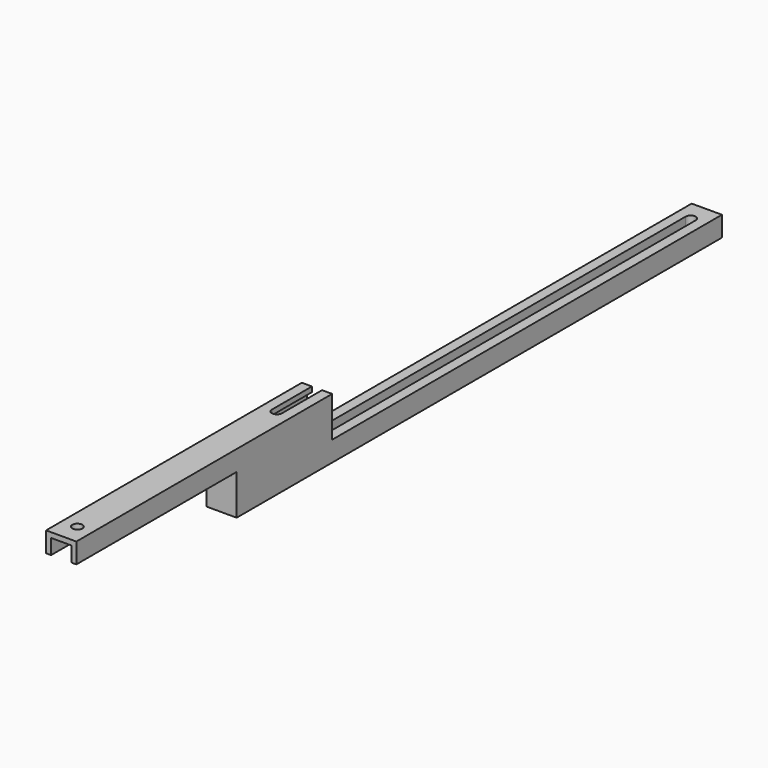
from build123d import *

# Parameters (mm, degrees)
F0_W     = 19.05
F0_H     = 38.1
F0_W_2   = 12.7
F0_H_2   = 12.7
F1_DEPTH = 508
F2_R     = 3.175
F3_DEPTH = 63.5
F4_W     = 306.7244030911
F4_H     = 25.4
F4_W_2   = 126.1607544422
F5_DEPTH = 25.4


with BuildPart() as f1:
    # F0 (on Front) → F1 (new body)
    with BuildSketch(Plane.XZ):
        with Locations((-6.35, -3.175)):
            Rectangle(F0_W, F0_H)
        with Locations((-6.35, 6.35)):
            Rectangle(F0_W_2, F0_H_2, mode=Mode.SUBTRACT)
    extrude(amount=F1_DEPTH)

    # F2 (on Top) → F3 (cut, symmetric)
    with BuildSketch(Plane.XY):
        with BuildLine():
            Line((-3.175, -254), (-3.175, -12.7))
            ThreePointArc((-3.175, -12.7), (-6.35, -9.525), (-9.525, -12.7))
            Line((-9.525, -12.7), (-9.525, -254))
            Line((-9.525, -254), (-9.525, -338.2622301579))
            ThreePointArc((-9.525, -338.2622301579), (-6.35, -341.4372301579), (-3.175, -338.2622301579))
            Line((-3.175, -338.2622301579), (-3.175, -254))
        make_face()
        with Locations((-6.35, -495.3)):
            Circle(F2_R)
    extrude(amount=F3_DEPTH, both=True, mode=Mode.SUBTRACT)

    # F4 (on face) → F5 (cut)
    with BuildSketch(Plane(origin=(-15.875, 0, 0), x_dir=(0, -1, 0), z_dir=(-1, 0, 0))):
        with Locations((153.3622015456, 3.175)):
            Rectangle(F4_W, F4_H)
        with Locations((444.9196227789, -9.525)):
            Rectangle(F4_W_2, F4_H)
    extrude(amount=-F5_DEPTH, mode=Mode.SUBTRACT)


solid = f1.part
